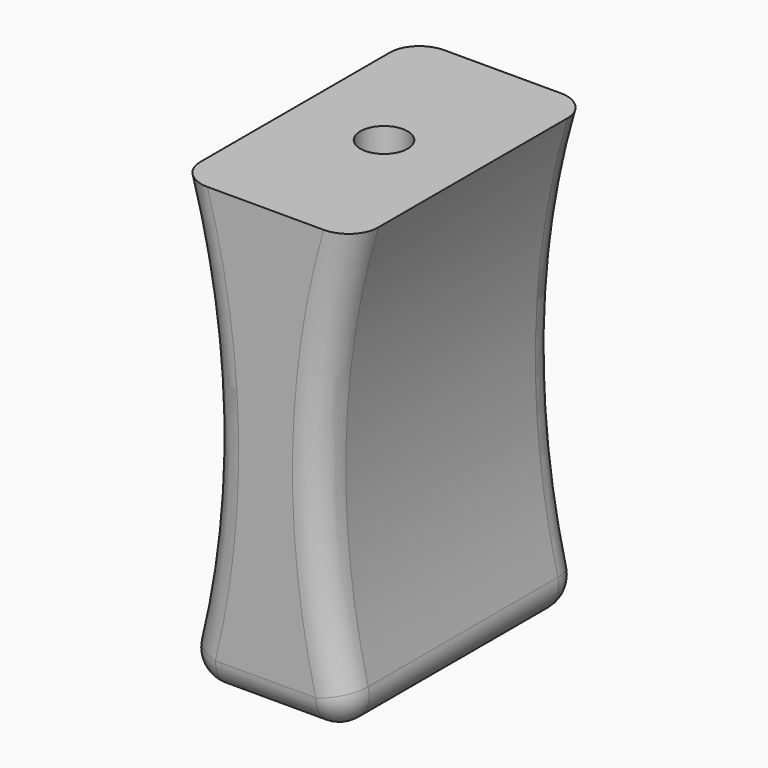
from build123d import *

# Parameters (mm, degrees)
F1_DEPTH = 6.35
F2_R     = 1.016
F3_DEPTH = 15.875
F4_R     = 1.27


with BuildPart() as f1:
    # F0 (on Front) → F1 (new body, symmetric)
    with BuildSketch(Plane.XZ):
        with BuildLine():
            Line((0, 0), (3.81, 0))
            ThreePointArc((3.81, 0), (2.422893, 9.525), (3.81, 19.05))
            Line((3.81, 19.05), (0, 19.05))
            Line((0, 19.05), (0, 0))
        make_face()
        with BuildLine():
            Line((-3.81, 0), (0, 0))
            Line((0, 0), (0, 19.05))
            Line((0, 19.05), (-3.81, 19.05))
            ThreePointArc((-3.81, 19.05), (-2.422893, 9.525), (-3.81, 0))
        make_face()
    extrude(amount=F1_DEPTH, both=True)

    # F2 (on face) → F3 (cut)
    with BuildSketch(Plane.XY.offset(19.05)):
        Circle(F2_R)
    extrude(amount=-F3_DEPTH, mode=Mode.SUBTRACT)

    # F4
    f4_edges = [f1.edges().sort_by_distance(p)[0] for p in [
        (2.422893, -6.35, 9.525),
        (-2.422893, -6.35, 9.525),
        (0, -6.35, 0),
        (3.81, 0, 0),
        (0, 6.35, 0),
        (-3.81, 0, 0),
        (-2.422893, 6.35, 9.525),
        (2.422893, 6.35, 9.525),
    ]]
    fillet(f4_edges, radius=F4_R)


solid = f1.part
